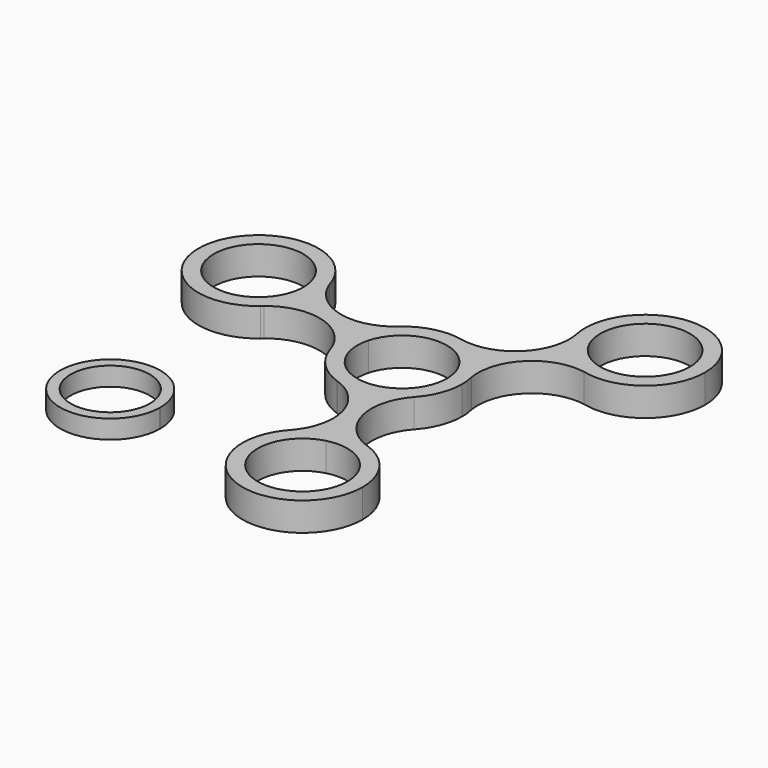
from build123d import *

# Parameters (mm, degrees)
F2_DEPTH = 7.0000114
F4_DEPTH = 4.572


with BuildPart() as f2:
    # F0 (on Top) → F2 (new body)
    with BuildSketch(Plane.XY):
        with BuildLine():
            ThreePointArc((7.8272758418, 7.7261993333), (10.1746338608, 4.1757908279), (10.9982, 0))
            ThreePointArc((10.9982, 0), (8.7036578683, -6.7235959837), (2.7774469764, -10.641719388))
            Line((2.7774469764, -10.641719388), (3.7203677744, -14.2544971017))
            ThreePointArc((3.7203677744, -14.2544971017), (7.6286923371, -12.6029709682), (10.90422567, -9.9060429303))
            ThreePointArc((10.90422567, -9.9060429303), (13.7417771152, -5.3099327411), (14.732, 0))
            ThreePointArc((14.732, 0), (14.6366857563, 1.6730971491), (14.3519763684, 3.324544829))
            ThreePointArc((14.3519763684, 3.324544829), (12.9054222306, 7.1050616499), (10.4845727211, 10.3491815549))
            Line((10.4845727211, 10.3491815549), (7.8272758418, 7.7261993333))
        make_face()
        with BuildLine():
            ThreePointArc((-10.6047228182, 2.9155200548), (-2.7774469764, 10.641719388), (7.8272758418, 7.7261993333))
            Line((7.8272758418, 7.7261993333), (10.4845727211, 10.3491815549))
            ThreePointArc((10.4845727211, 10.3491815549), (7.14461963, 12.8835645046), (3.2259916602, 14.3744496176))
            ThreePointArc((3.2259916602, 14.3744496176), (3.0844993227, 14.4039442122), (2.9433366195, 14.4349781276))
            ThreePointArc((2.9433366195, 14.4349781276), (-3.6008032262, 14.2851685369), (-9.4340428582, 11.3150633825))
            ThreePointArc((-9.4340428582, 11.3150633825), (-9.724057208, 11.0522175869), (-10.0216918933, 10.7980329503))
            ThreePointArc((-10.0216918933, 10.7980329503), (-12.5940389679, 7.6434289736), (-14.2049404955, 3.9053155468))
            Line((-14.2049404955, 3.9053155468), (-10.6047228182, 2.9155200548))
        make_face()
        with BuildLine():
            Line((3.7203677744, -14.2544971017), (2.7774469764, -10.641719388))
            ThreePointArc((2.7774469764, -10.641719388), (-7.8272758418, -7.7261993333), (-10.6047228182, 2.9155200548))
            Line((-10.6047228182, 2.9155200548), (-14.2049404955, 3.9053155468))
            ThreePointArc((-14.2049404955, 3.9053155468), (-14.7312647427, -0.1471838281), (-14.1240745364, -4.1883579706))
            ThreePointArc((-14.1240745364, -4.1883579706), (-14.0090795418, -4.5283409399), (-13.9033155932, -4.8713077828))
            ThreePointArc((-13.9033155932, -4.8713077828), (-10.4039783366, -10.430199364), (-4.8362961397, -13.9155331788))
            ThreePointArc((-4.8362961397, -13.9155331788), (-4.7125919019, -13.9566273821), (-4.5892973026, -13.9989347548))
            ThreePointArc((-4.5892973026, -13.9989347548), (-0.4528660503, -14.7250377365), (3.7203677744, -14.2544971017))
        make_face()
        with BuildLine():
            Line((22.8323443989, 22.5375018893), (10.4845727211, 10.3491815549))
            ThreePointArc((10.4845727211, 10.3491815549), (12.9054222306, 7.1050616499), (14.3519763684, 3.324544829))
            ThreePointArc((14.3519763684, 3.324544829), (18.1229856165, 14.9596552736), (29.8061241741, 18.5791275072))
            ThreePointArc((29.8061241741, 18.5791275072), (26.0447271489, 20.0746938631), (22.8323443989, 22.5375018893))
        make_face()
        with BuildLine():
            ThreePointArc((3.2259916602, 14.3744496176), (7.14461963, 12.8835645046), (10.4845727211, 10.3491815549))
            Line((10.4845727211, 10.3491815549), (22.8323443989, 22.5375018893))
            ThreePointArc((22.8323443989, 22.5375018893), (20.3415840097, 25.9101116013), (18.9017542093, 29.8477852459))
            ThreePointArc((18.9017542093, 29.8477852459), (15.1853756336, 17.935695971), (3.2259916602, 14.3744496176))
        make_face()
        with BuildLine():
            Line((8.0991112315, -31.0315443461), (3.7203677744, -14.2544971017))
            ThreePointArc((3.7203677744, -14.2544971017), (-0.4528660503, -14.7250377365), (-4.5892973026, -13.9989347548))
            ThreePointArc((-4.5892973026, -13.9989347548), (3.8531243325, -23.0695845008), (1.1242162746, -35.1569428015))
            ThreePointArc((1.1242162746, -35.1569428015), (4.3224309911, -32.6052318688), (8.0991112315, -31.0315443461))
        make_face()
        with BuildLine():
            ThreePointArc((10.90422567, -9.9060429303), (7.6286923371, -12.6029709682), (3.7203677744, -14.2544971017))
            Line((3.7203677744, -14.2544971017), (8.0991112315, -31.0315443461))
            ThreePointArc((8.0991112315, -31.0315443461), (12.1451914523, -30.5568594675), (16.1665764338, -31.2084373356))
            ThreePointArc((16.1665764338, -31.2084373356), (7.8985484702, -21.9497171909), (10.90422567, -9.9060429303))
        make_face()
        with BuildLine():
            Line((-30.9342213734, 8.5046393328), (-14.2049404955, 3.9053155468))
            ThreePointArc((-14.2049404955, 3.9053155468), (-12.5940389679, 7.6434289736), (-10.0216918933, 10.7980329503))
            ThreePointArc((-10.0216918933, 10.7980329503), (-22.0162164456, 8.2177494019), (-31.0058819992, 16.5671443298))
            ThreePointArc((-31.0058819992, 16.5671443298), (-30.557610116, 14.5099959458), (-30.4071618689, 12.4099548795))
            ThreePointArc((-30.4071618689, 12.4099548795), (-30.539521336, 10.4395944277), (-30.9342213734, 8.5046393328))
        make_face()
        with BuildLine():
            ThreePointArc((-14.1240745364, -4.1883579706), (-14.7312647427, -0.1471838281), (-14.2049404955, 3.9053155468))
            Line((-14.2049404955, 3.9053155468), (-30.9342213734, 8.5046393328))
            ThreePointArc((-30.9342213734, 8.5046393328), (-32.5535614374, 4.7526390457), (-35.1413152965, 1.5898399118))
            ThreePointArc((-35.1413152965, 1.5898399118), (-23.1234080033, 4.190522919), (-14.1240745364, -4.1883579706))
        make_face()
        with BuildLine():
            ThreePointArc((2.9433366195, 14.4349781276), (3.0844993227, 14.4039442122), (3.2259916602, 14.3744496176))
            ThreePointArc((3.2259916602, 14.3744496176), (3.0848126006, 14.4054071522), (2.9433366195, 14.4349781276))
        make_face()
        with BuildLine():
            ThreePointArc((18.9017542093, 29.8477852459), (20.3415840097, 25.9101116013), (22.8323443989, 22.5375018893))
            ThreePointArc((22.8323443989, 22.5375018893), (26.0447271489, 20.0746938631), (29.8061241741, 18.5791275072))
            ThreePointArc((29.8061241741, 18.5791275072), (42.4084192599, 21.2945993848), (48.0489171199, 32.8866834442))
            ThreePointArc((48.0489171199, 32.8866834442), (31.7892319429, 47.5392600777), (18.9017542093, 29.8477852459))
        make_face()
        with BuildLine():
            ThreePointArc((44.3151171199, 32.8866834442), (37.4927079479, 22.7120495834), (25.4896412782, 25.1604841109))
            ThreePointArc((25.4896412782, 25.1604841109), (29.141126292, 43.061317305), (44.3151171199, 32.8866834442))
        make_face(mode=Mode.SUBTRACT)
        with BuildLine():
            ThreePointArc((-4.8362961397, -13.9155331788), (-4.7129812105, -13.9577803432), (-4.5892973026, -13.9989347548))
            ThreePointArc((-4.5892973026, -13.9989347548), (-4.7125919019, -13.9566273821), (-4.8362961397, -13.9155331788))
        make_face()
        with BuildLine():
            ThreePointArc((16.1665764338, -31.2084373356), (12.1451914523, -30.5568594675), (8.0991112315, -31.0315443461))
            ThreePointArc((8.0991112315, -31.0315443461), (4.3224309911, -32.6052318688), (1.1242162746, -35.1569428015))
            ThreePointArc((1.1242162746, -35.1569428015), (6.3711683178, -58.9717209492), (26.5542447489, -45.2853193132))
            ThreePointArc((26.5542447489, -45.2853193132), (23.9032029925, -36.8542890133), (16.9041942579, -31.4576075289))
            ThreePointArc((16.9041942579, -31.4576075289), (16.5335573863, -31.3384337358), (16.1665764338, -31.2084373356))
        make_face()
        with BuildLine():
            ThreePointArc((22.8204447489, -45.2853193132), (5.0997798747, -53.9898508488), (9.0420320533, -34.6443221509))
            ThreePointArc((9.0420320533, -34.6443221509), (18.5447096232, -36.5807877776), (22.8204447489, -45.2853193132))
        make_face(mode=Mode.SUBTRACT)
        with BuildLine():
            ThreePointArc((-9.4340428582, 11.3150633825), (-9.7313017524, 11.0604516275), (-10.0216918933, 10.7980329503))
            ThreePointArc((-10.0216918933, 10.7980329503), (-9.724057208, 11.0522175869), (-9.4340428582, 11.3150633825))
        make_face()
        with BuildLine():
            ThreePointArc((-13.9033155932, -4.8713077828), (-14.0090795418, -4.5283409399), (-14.1240745364, -4.1883579706))
            ThreePointArc((-14.1240745364, -4.1883579706), (-14.0178548459, -4.5311774981), (-13.9033155932, -4.8713077828))
        make_face()
        with BuildLine():
            ThreePointArc((-35.1413152965, 1.5898399118), (-32.5535614374, 4.7526390457), (-30.9342213734, 8.5046393328))
            ThreePointArc((-30.9342213734, 8.5046393328), (-30.539521336, 10.4395944277), (-30.4071618689, 12.4099548795))
            ThreePointArc((-30.4071618689, 12.4099548795), (-30.557610116, 14.5099959458), (-31.0058819992, 16.5671443298))
            ThreePointArc((-31.0058819992, 16.5671443298), (-59.2400569542, 16.6757000422), (-35.6801804399, 1.1157309431))
            ThreePointArc((-35.6801804399, 1.1157309431), (-35.4139519994, 1.356427195), (-35.1413152965, 1.5898399118))
        make_face()
        with BuildLine():
            ThreePointArc((-34.1409618689, 12.4099548795), (-34.2397750572, 10.938978887), (-34.5344390507, 9.4944348248))
            ThreePointArc((-34.5344390507, 9.4944348248), (-56.0385486805, 13.8809308721), (-34.1409618689, 12.4099548795))
        make_face(mode=Mode.SUBTRACT)
        with BuildLine():
            ThreePointArc((16.9041942579, -31.4576075289), (16.5370316723, -31.3281488167), (16.1665764338, -31.2084373356))
            ThreePointArc((16.1665764338, -31.2084373356), (16.5335573863, -31.3384337358), (16.9041942579, -31.4576075289))
        make_face()
        with BuildLine():
            ThreePointArc((-35.6801804399, 1.1157309431), (-35.4078601164, 1.3495032521), (-35.1413152965, 1.5898399118))
            ThreePointArc((-35.1413152965, 1.5898399118), (-35.4139519994, 1.356427195), (-35.6801804399, 1.1157309431))
        make_face()
    extrude(amount=F2_DEPTH)


with BuildPart() as f4:
    # F3 (on Top) → F4 (new body)
    with BuildSketch(Plane.XY):
        with BuildLine():
            ThreePointArc((-27.2809546394, -40.0318642181), (-51.854153103, -39.8727292704), (-27.2850766701, -40.3501074196))
            ThreePointArc((-27.2850766701, -40.3501074196), (-27.2819851903, -40.1909991659), (-27.2809546394, -40.0318642181))
        make_face()
        with BuildLine():
            ThreePointArc((-29.8732914558, -40.3501074196), (-49.266763219, -39.8727211975), (-29.8680694966, -40.0318642181))
            ThreePointArc((-29.8680694966, -40.0318642181), (-29.8693750743, -40.1910072388), (-29.8732914558, -40.3501074196))
        make_face(mode=Mode.SUBTRACT)
    extrude(amount=F4_DEPTH)


solid = Compound([f2.part, f4.part])
